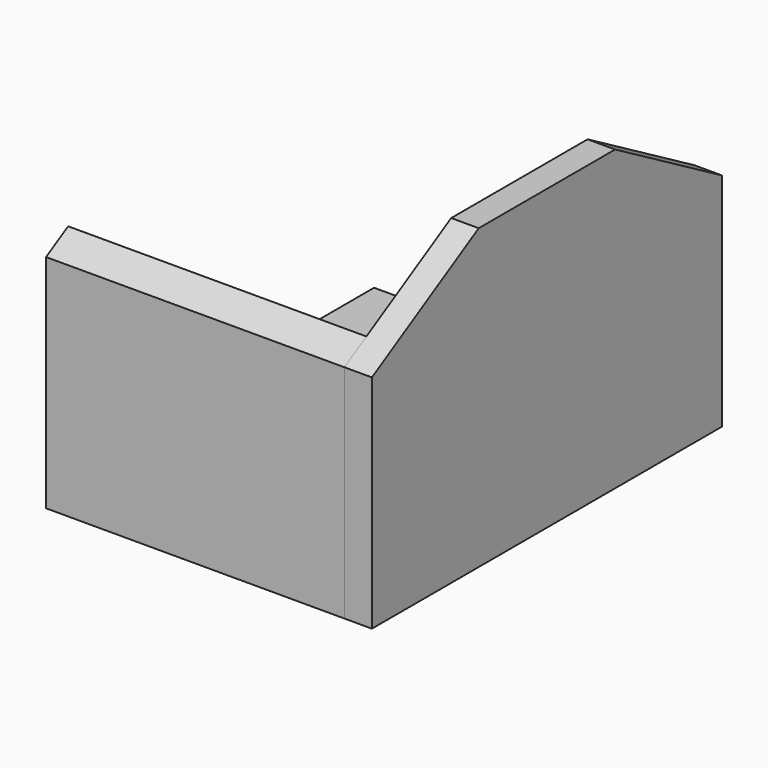
from build123d import *

# Parameters (mm, degrees)
F0_W      = 195
F0_H      = 18
F1_DEPTH  = 125
F3_W      = 195
F3_H      = 155
F4_DEPTH  = 18
F7_DEPTH  = 195.001
F8_W      = 286
F8_H      = 195
F9_DEPTH  = 18
F11_DEPTH = 213.001


with BuildPart() as f1:
    # F0 (on Front) → F1 (new body, symmetric)
    with BuildSketch(Plane.XZ):
        Rectangle(F0_W, F0_H)
    extrude(amount=F1_DEPTH, both=True)


with BuildPart() as f4:
    # F3 (on offset) → F4 (new body)
    with BuildSketch(Plane.XZ.offset(125)):
        with Locations((0, 68.5)):
            Rectangle(F3_W, F3_H)
    extrude(amount=F4_DEPTH)

    # F6 (on face) → F7 (cut, through all)
    with BuildSketch(Plane(origin=(-97.5, 0, 0), x_dir=(0, -1, 0), z_dir=(-1, 0, 0))):
        Polygon((143, 146), (125, 146), (143, 135.607695), align=None)
    extrude(amount=-F7_DEPTH, mode=Mode.SUBTRACT)


with BuildPart() as f9:
    # F8 (on offset) → F9 (new body)
    with BuildSketch(Plane.YZ.offset(97.5)):
        with Locations((0, 88.5)):
            Rectangle(F8_W, F8_H)
    extrude(amount=F9_DEPTH)

    # F10 (on face) → F11 (cut, through all)
    with BuildSketch(Plane.YZ.offset(115.5)):
        Polygon((-143, 186), (-143, 135.607695), (-55.717968, 186), align=None)
        Polygon((55.718496, 186), (143, 135.608), (143, 186), align=None)
    extrude(amount=-F11_DEPTH, mode=Mode.SUBTRACT)


solid = Compound([f1.part, f4.part, f9.part])
